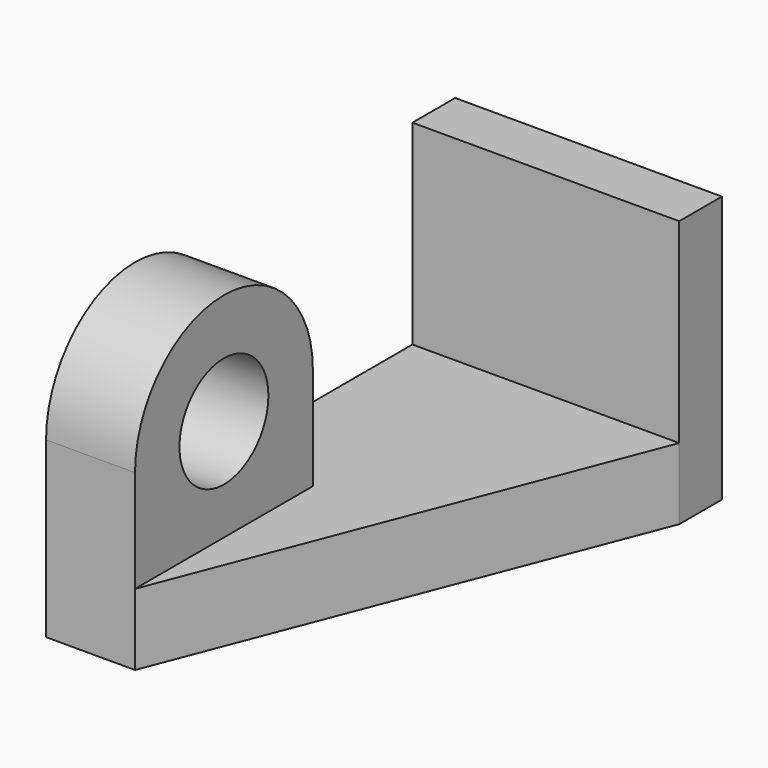
from build123d import *

# Parameters (mm, degrees)
F0_W      = 1524
F0_H      = 1524
F1_DEPTH  = 304.8
F2_W      = 1524
F2_H      = 408.1796109676
F3_DEPTH  = 2616.2
F4_W      = 508
F4_H      = 1270
F5_DEPTH  = 584.2
F7_DEPTH  = 508
F8_R      = 317.5
F9_DEPTH  = 508
F11_DEPTH = 579.12


with BuildPart() as f1:
    # F0 (on Front) → F1 (new body)
    with BuildSketch(Plane.XZ):
        with Locations((-762, 762)):
            Rectangle(F0_W, F0_H)
    extrude(amount=F1_DEPTH)

    # F2 (on face) → F3 (join)
    with BuildSketch(Plane.XZ.offset(304.8)):
        with Locations((-762, 204.0898054838)):
            Rectangle(F2_W, F2_H)
    extrude(amount=F3_DEPTH)

    # F4 (on face) → F5 (join)
    with BuildSketch(Plane.XY.offset(408.1796109676)):
        with Locations((-1270, -2286)):
            Rectangle(F4_W, F4_H)
    extrude(amount=F5_DEPTH)

    # F6 (on face) → F7 (join)
    with BuildSketch(Plane.YZ.offset(-1016)):
        with BuildLine():
            Line((-2921, 992.3796109676), (-1651, 992.3796109676))
            ThreePointArc((-1651, 992.3796109676), (-2286, 1627.3796109676), (-2921, 992.3796109676))
        make_face()
    extrude(amount=-F7_DEPTH)

    # F8 (on face) → F9 (cut)
    with BuildSketch(Plane.YZ.offset(-1016)):
        with Locations((-2286, 992.3796109676)):
            Circle(F8_R)
    extrude(amount=-F9_DEPTH, mode=Mode.SUBTRACT)

    # F10 (on face) → F11 (cut)
    with BuildSketch(Plane.XY.offset(408.1796109676)):
        Polygon((0, -304.8), (-1016, -2921), (0, -2921), align=None)
    extrude(amount=-F11_DEPTH, mode=Mode.SUBTRACT)


solid = f1.part
